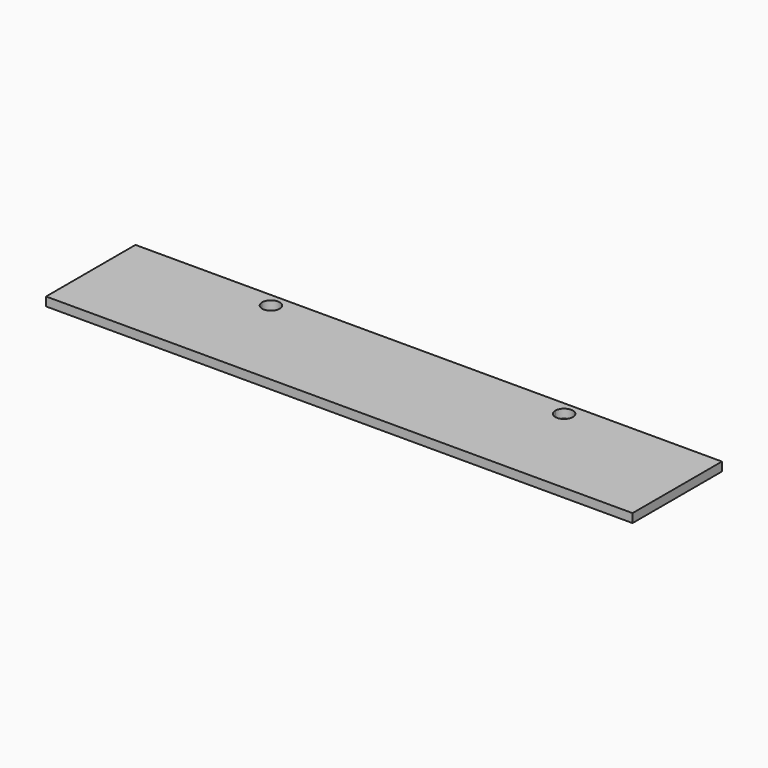
from build123d import *

# Parameters (mm, degrees)
F1_DEPTH = 3


with BuildPart() as f1:
    # F0 (on Top) → F1 (new body)
    with BuildSketch(Plane.XY):
        with BuildLine():
            Line((0, 19.05), (-100, 19.05))
            Line((-100, 19.05), (-100, 14.2875))
            Line((-100, 14.2875), (-53, 14.2875))
            ThreePointArc((-53, 14.2875), (-50, 17.2875), (-47, 14.2875))
            Line((-47, 14.2875), (0, 14.2875))
            Line((0, 14.2875), (0, 19.05))
        make_face()
        with BuildLine():
            Line((100, 19.05), (0, 19.05))
            Line((0, 19.05), (0, 14.2875))
            Line((0, 14.2875), (47, 14.2875))
            ThreePointArc((47, 14.2875), (50, 17.2875), (53, 14.2875))
            Line((53, 14.2875), (100, 14.2875))
            Line((100, 14.2875), (100, 19.05))
        make_face()
        with BuildLine():
            Line((-53, 14.2875), (-100, 14.2875))
            Line((-100, 14.2875), (-100, -19.05))
            Line((-100, -19.05), (100, -19.05))
            Line((100, -19.05), (100, 14.2875))
            Line((100, 14.2875), (53, 14.2875))
            ThreePointArc((53, 14.2875), (52.1213203436, 12.1661796564), (50, 11.2875))
            ThreePointArc((50, 11.2875), (47.8786796564, 12.1661796564), (47, 14.2875))
            Line((47, 14.2875), (0, 14.2875))
            Line((0, 14.2875), (-47, 14.2875))
            ThreePointArc((-47, 14.2875), (-47.8786796564, 12.1661796564), (-50, 11.2875))
            ThreePointArc((-50, 11.2875), (-52.1213203436, 12.1661796564), (-53, 14.2875))
        make_face()
    extrude(amount=F1_DEPTH)


solid = f1.part
